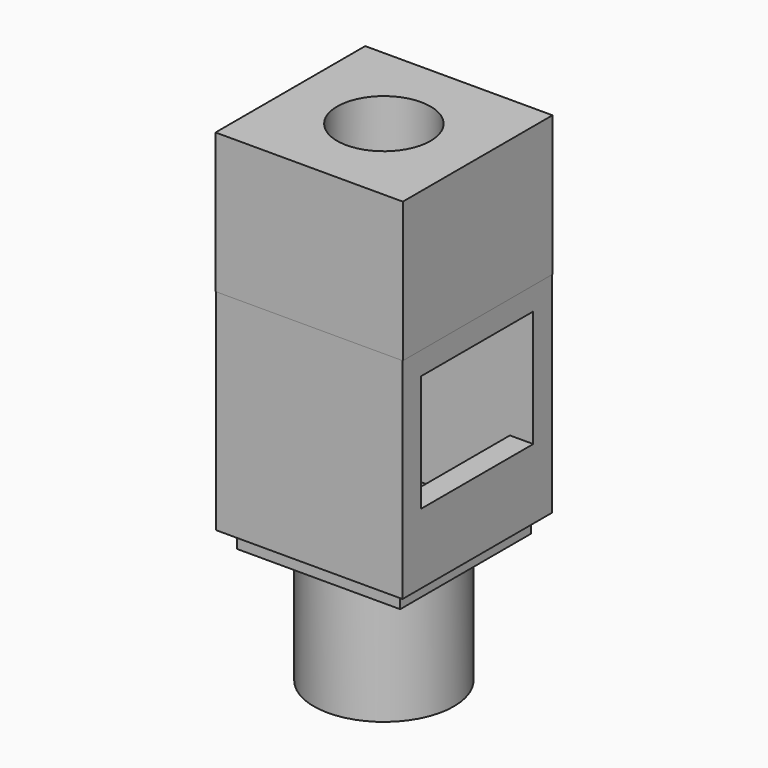
from build123d import *

# Parameters (mm, degrees)
F0_R      = 3
F0_R_2    = 2
F1_DEPTH  = 6
F2_W      = 8
F2_H      = 8
F3_DEPTH  = 3
F4_W      = 6
F4_H      = 6
F4_R      = 2
F5_DEPTH  = 0.75
F6_W      = 1
F6_H      = 1
F7_DEPTH  = 6
F8_W      = 1
F8_H      = 1
F8_R      = 2
F9_DEPTH  = 6
F10_W     = 6
F10_H     = 1
F11_DEPTH = 7.62
F13_DEPTH = 1


with BuildPart() as f1:
    # F0 (on Top) → F1 (new body)
    with BuildSketch(Plane.XY):
        Circle(F0_R)
        Circle(F0_R_2, mode=Mode.SUBTRACT)
    extrude(amount=F1_DEPTH)


with BuildPart() as f3:
    # F2 (on face) → F3 (new body)
    with BuildSketch(Plane.XY.offset(6)):
        Rectangle(F2_W, F2_H)
        Polygon((0, 3), (3, 3), (3, 0), (3, -3), (0, -3), (-3, -3), (-3, 0), (-3, 3), align=None, mode=Mode.SUBTRACT)
    extrude(amount=F3_DEPTH)

    # F6 (on face) → F7 (join)
    with BuildSketch(Plane.XY.offset(9)):
        with Locations((-3.5, 3.5)):
            Rectangle(F6_W, F6_H)
        with Locations((3.5, 3.5)):
            Rectangle(F6_W, F6_H)
        with Locations((3.5, -3.5)):
            Rectangle(F6_W, F6_H)
        with Locations((-3.5, -3.5)):
            Rectangle(F6_W, F6_H)
    extrude(amount=F7_DEPTH)

    # F8 (on face) → F9 (join)
    with BuildSketch(Plane.XY.offset(15)):
        with Locations((-3.5, 3.5)):
            Rectangle(F8_W, F8_H)
        Polygon((4.02341, 4), (-3, 4), (-3, 3), (-4, 3), (-4, -4.013174), (4.02341, -4.013174), align=None)
        Circle(F8_R, mode=Mode.SUBTRACT)
    extrude(amount=F9_DEPTH)

    # F10 (on face) → F11 (join)
    with BuildSketch(Plane(origin=(0, 0, 15), x_dir=(1, 0, 0), z_dir=(0, 0, -1))):
        with Locations((0, 3.5)):
            Rectangle(F10_W, F10_H)
        with Locations((0, -3.5)):
            Rectangle(F10_W, F10_H)
    extrude(amount=F11_DEPTH)

    # F12 (on face) → F13 (join)
    with BuildSketch(Plane(origin=(0, 0, 15), x_dir=(1, 0, 0), z_dir=(0, 0, -1))):
        Polygon((-1.753777, -3), (-3.49991, -0.025116), (-1.782184, 3), (-4, 3), (-4, -3), align=None)
        Polygon((4, 3), (1.753777, 3), (3.49991, 0.025116), (1.782184, -3), (4, -3), align=None)
    extrude(amount=F13_DEPTH)


with BuildPart() as f5:
    # F4 (on face) → F5 (new body)
    with BuildSketch(Plane(origin=(0, 0, 6), x_dir=(1, 0, 0), z_dir=(0, 0, -1))):
        Polygon((3.5, 3.5), (-3.5, 3.5), (-3, 3), (3, 3), (3, -3), (3.5, -3.5), align=None)
        Rectangle(F4_W, F4_H)
        Circle(F4_R, mode=Mode.SUBTRACT)
        Polygon((-3, 3), (-3.5, 3.5), (-3.5, -3.5), (3.5, -3.5), (3, -3), (-3, -3), align=None)
    extrude(amount=F5_DEPTH)


solid = Compound([f1.part, f3.part, f5.part])
